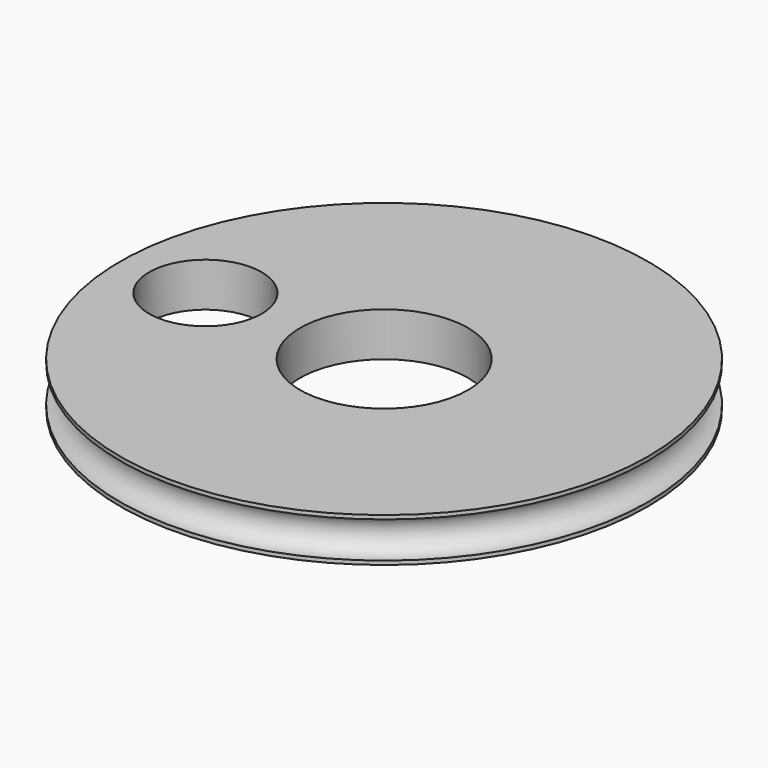
from build123d import *

# Parameters (mm, degrees)
F0_R     = 30
F1_DEPTH = 5
F2_R     = 9.55
F3_DEPTH = 5.5
F4_R     = 2.0590521715
F6_R     = 6.4
F7_DEPTH = 5.1


with BuildPart() as f1:
    # F0 (on Top) → F1 (new body)
    with BuildSketch(Plane.XY):
        Circle(F0_R)
    extrude(amount=F1_DEPTH)

    # F2 (on face) → F3 (cut)
    with BuildSketch(Plane.XY.offset(5)):
        Circle(F2_R)
    extrude(amount=-F3_DEPTH, mode=Mode.SUBTRACT)

    # F5: sweep along a path in F0
    with BuildLine(Plane.XY) as f5_path:
        CenterArc((0, 0), 30, 0, 360)
    # F4 (on Right) → F5 (sweep, cut)
    with BuildSketch(Plane.YZ):
        with Locations((30.0044678152, 2.5)):
            Circle(F4_R)
    sweep(path=f5_path.line, mode=Mode.SUBTRACT)

    # F6 (on face) → F7 (cut)
    with BuildSketch(Plane.XY.offset(5)):
        with Locations((-20.3089937568, 0)):
            Circle(F6_R)
    extrude(amount=-F7_DEPTH, mode=Mode.SUBTRACT)


solid = f1.part
